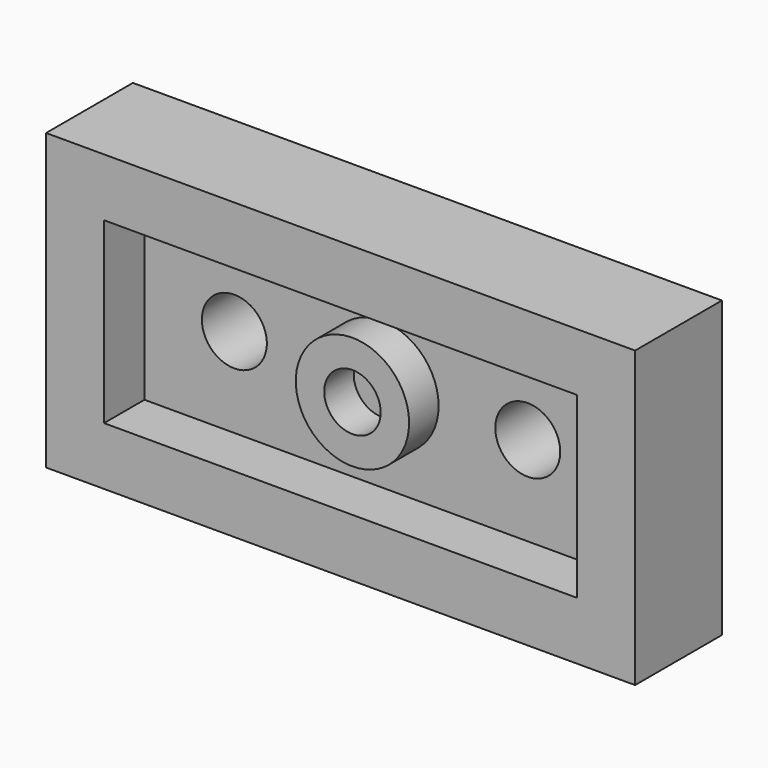
from build123d import *

# Parameters (mm, degrees)
F0_W     = 15.96
F0_H     = 7.98
F1_DEPTH = 2.94
F2_R     = 2.45
F3_DEPTH = 1.84
F4_T     = -1.57
F5_R     = 1.535
F5_R_2   = 0.765
F6_DEPTH = 1


with BuildPart() as f1:
    # F0 (on Front) → F1 (new body)
    with BuildSketch(Plane.XZ):
        with Locations((0.1376755536, 5.0412456957)):
            Rectangle(F0_W, F0_H)
    extrude(amount=F1_DEPTH)

    # F2 (on face) → F3 (join)
    with BuildSketch(Plane(origin=(0, 0, 0), x_dir=(-1, 0, 0), z_dir=(0, 1, 0))):
        with Locations((3.8373244464, 5.0412456957)):
            Circle(F2_R)
        with Locations((-4.1126755536, 5.0412456957)):
            Circle(F2_R)
    extrude(amount=F3_DEPTH)

    # F4
    f4_openings = [f1.faces().sort_by_distance(p)[0] for p in [
        (0.137676, -2.94, 5.041246),
    ]]
    offset(amount=F4_T, openings=f4_openings, kind=Kind.INTERSECTION)

    # F5 (on face) → F6 (join)
    with BuildSketch(Plane.XZ.offset(1.57)):
        with Locations((0.1626269908, 5.0662456957)):
            Circle(F5_R)
        with Locations((0.1626269908, 5.0662456957)):
            Circle(F5_R_2, mode=Mode.SUBTRACT)
    extrude(amount=F6_DEPTH)


solid = f1.part
